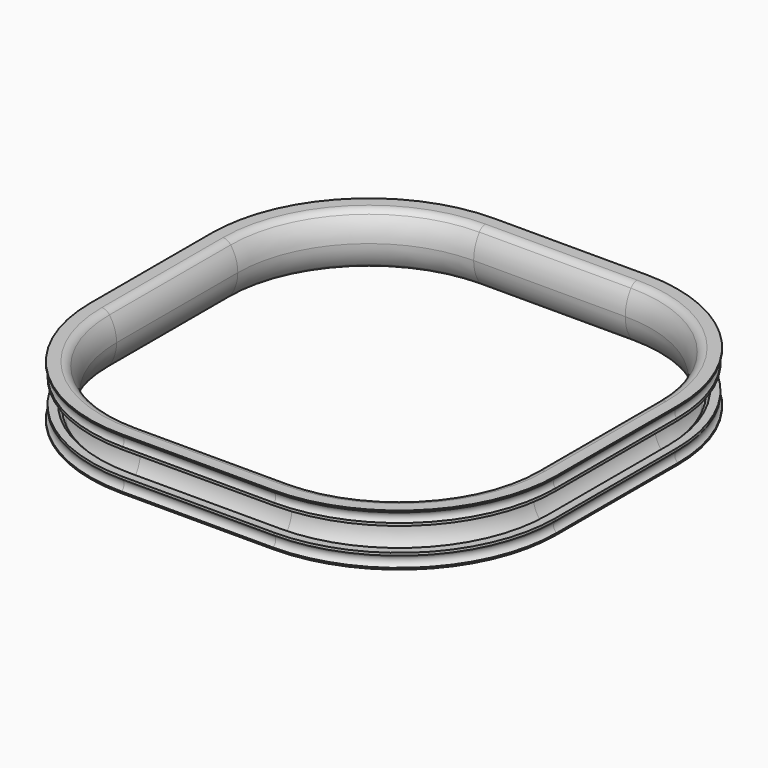
from build123d import *


with BuildPart() as f2:
    # F2: sweep along a path in F0
    with BuildLine(Plane.XY) as f2_path:
        Line((-48, 132), (48, 132))
        ThreePointArc((48, 132), (107.39697, 107.39697), (132, 48))
        Line((132, 48), (132, -48))
        ThreePointArc((132, -48), (107.39697, -107.39697), (48, -132))
        Line((48, -132), (-48, -132))
        ThreePointArc((-48, -132), (-107.39697, -107.39697), (-132, -48))
        Line((-132, -48), (-132, 48))
        ThreePointArc((-132, 48), (-107.39697, 107.39697), (-48, 132))
    # F1 (on Right) → F2 (sweep)
    with BuildSketch(Plane.YZ):
        with BuildLine():
            ThreePointArc((135.506411, 14), (132.154364, 7.353702), (131, 0))
            ThreePointArc((131, 0), (132.154364, -7.353702), (135.506411, -14))
            ThreePointArc((135.506411, -14), (137.641196, -15.838539), (140.379808, -16.5))
            Line((140.379808, -16.5), (146.786258, -16.5))
            Line((146.786258, -16.5), (147.786258, -16.5))
            Line((147.786258, -16.5), (147.786258, -15.464102))
            ThreePointArc((147.786258, -15.464102), (145.816723, -12.492744), (147, -9.130023))
            Line((147, -9.130023), (147, -7.5))
            Line((147, -7.5), (141.786258, -7.5))
            Line((141.786258, -7.5), (139.786258, -9.5))
            Line((139.786258, -9.5), (139.786258, -11.5))
            Line((139.786258, -11.5), (141.786258, -11.5))
            Line((141.786258, -11.5), (141.786258, -13.5))
            Line((141.786258, -13.5), (140.287857, -13.5))
            ThreePointArc((140.287857, -13.5), (139.125962, -13.265863), (138.145429, -12.6))
            ThreePointArc((138.145429, -12.6), (134.335933, -6.805061), (133, 0))
            ThreePointArc((133, 0), (134.335933, 6.805061), (138.145429, 12.6))
            ThreePointArc((138.145429, 12.6), (139.125962, 13.265863), (140.287857, 13.5))
            Line((140.287857, 13.5), (141.786258, 13.5))
            Line((141.786258, 13.5), (141.786258, 11.5))
            Line((141.786258, 11.5), (139.786258, 11.5))
            Line((139.786258, 11.5), (139.786258, 9.5))
            Line((139.786258, 9.5), (141.786258, 7.5))
            Line((141.786258, 7.5), (147, 7.5))
            Line((147, 7.5), (147, 9.130023))
            ThreePointArc((147, 9.130023), (145.816723, 12.492744), (147.786258, 15.464102))
            Line((147.786258, 15.464102), (147.786258, 16.5))
            Line((147.786258, 16.5), (146.786258, 16.5))
            Line((146.786258, 16.5), (140.379808, 16.5))
            ThreePointArc((140.379808, 16.5), (137.641196, 15.838539), (135.506411, 14))
        make_face()
    sweep(path=f2_path.line)


solid = f2.part
